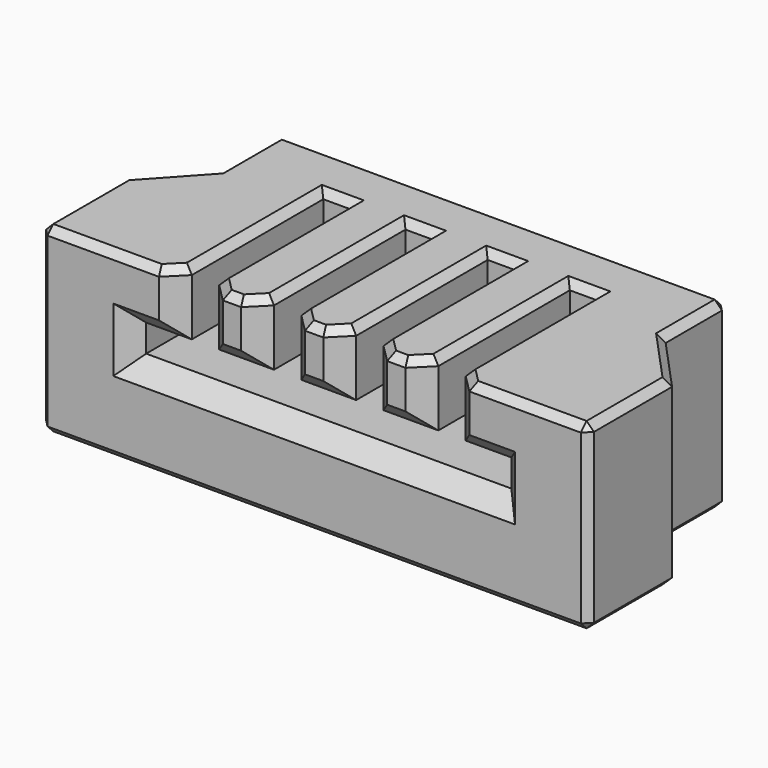
from build123d import *

# Parameters (mm, degrees)
SKETCH_W        = 30
SKETCH_H        = 10
PAD_DEPTH       = 13
SKETCH001_W     = 20
SKETCH001_H     = 1.5
POCKET_DEPTH    = 10
SKETCH002_W     = 1.5
SKETCH002_H     = 3.5
POCKET001_DEPTH = 10
POCKET002_DEPTH = 10.001
CHAMFER_SIZE    = 1
SKETCH004_R     = 3
POCKET003_DEPTH = 3
CHAMFER001_SIZE = 0.4


with BuildPart() as part:
    # Sketch → Pad (new body)
    with BuildSketch(Plane.XZ):
        with Locations((0, 5)):
            Rectangle(SKETCH_W, SKETCH_H)
    extrude(amount=PAD_DEPTH)

    # Sketch001 (on Face6 of Pad) → Pocket (cut)
    with BuildSketch(Plane.XZ.offset(13)):
        with Locations((0, 5.75)):
            Rectangle(SKETCH001_W, SKETCH001_H)
    extrude(amount=-POCKET_DEPTH, mode=Mode.SUBTRACT)

    # Sketch002 (on Face5 of Pocket) → Pocket001 (cut)
    with BuildSketch(Plane.XZ.offset(13)):
        with Locations((-6.75, 8.25)):
            Rectangle(SKETCH002_W, SKETCH002_H)
        with Locations((-2.25, 8.25)):
            Rectangle(SKETCH002_W, SKETCH002_H)
        with Locations((2.25, 8.25)):
            Rectangle(SKETCH002_W, SKETCH002_H)
        with Locations((6.75, 8.25)):
            Rectangle(SKETCH002_W, SKETCH002_H)
    extrude(amount=-POCKET001_DEPTH, mode=Mode.SUBTRACT)

    # Sketch003 (on Face6 of Pocket001) → Pocket002 (cut, through all)
    with BuildSketch(Plane(origin=(0, 0, 10), x_dir=(-1, 0, 0), z_dir=(0, 0, 1))):
        Polygon((-15, 7.25), (-12.25, 4.25), (-12.25, 0), (-15, 0), align=None)
        Polygon((15, 7.25), (12.25, 4.25), (12.25, 0), (15, 0), align=None)
    extrude(amount=-POCKET002_DEPTH, mode=Mode.SUBTRACT)

    # Chamfer
    chamfer_edges = [part.edges().sort_by_distance(p)[0] for p in [
        (-7.5, -13, 8.25),
        (-8.75, -13, 6.5),
        (-10, -13, 5.75),
        (0, -13, 5),
        (10, -13, 5.75),
        (8.75, -13, 6.5),
        (7.5, -13, 8.25),
        (6, -13, 8.25),
        (4.5, -13, 6.5),
        (3, -13, 8.25),
        (1.5, -13, 8.25),
        (0, -13, 6.5),
        (-1.5, -13, 8.25),
        (-3, -13, 8.25),
        (-4.5, -13, 6.5),
        (-6, -13, 8.25),
    ]]
    chamfer(chamfer_edges, length=CHAMFER_SIZE)

    # Sketch004 (on Face6 of Chamfer) → Pocket003 (cut)
    with BuildSketch(Plane(origin=(0, 0, 0), x_dir=(1, 0, 0), z_dir=(0, 0, -1))):
        with Locations((-7, 8)):
            Circle(SKETCH004_R)
        with Locations((7, 8)):
            Circle(SKETCH004_R)
    extrude(amount=-POCKET003_DEPTH, mode=Mode.SUBTRACT)

    # Chamfer001
    chamfer001_edges = [part.edges().sort_by_distance(p)[0] for p in [
        (-13.625, -5.75, 0),
        (-15, -10.125, 0),
        (-12.25, -2.125, 0),
        (0, -13, 0),
        (0, 0, 0),
        (15, -10.125, 0),
        (12.25, -2.125, 0),
        (13.625, -5.75, 0),
        (-10, -8, 0),
        (4, -8, 0),
        (-15, -13, 5),
        (-12.25, 0, 5),
        (12.25, 0, 5),
        (15, -13, 5),
        (-11.75, -13, 10),
        (-8, -12.5, 10),
        (-7.5, -7.5, 10),
        (-6.75, -3, 10),
        (-6, -7.5, 10),
        (-5.5, -12.5, 10),
        (-4.5, -13, 10),
        (-3.5, -12.5, 10),
        (-3, -7.5, 10),
        (-2.25, -3, 10),
        (-1.5, -7.5, 10),
        (-1, -12.5, 10),
        (0, -13, 10),
        (1, -12.5, 10),
        (1.5, -7.5, 10),
        (2.25, -3, 10),
        (3, -7.5, 10),
        (3.5, -12.5, 10),
        (4.5, -13, 10),
        (5.5, -12.5, 10),
        (6, -7.5, 10),
        (6.75, -3, 10),
        (7.5, -7.5, 10),
        (8, -12.5, 10),
        (11.75, -13, 10),
        (15, -10.125, 10),
        (13.625, -5.75, 10),
        (12.25, -2.125, 10),
        (0, 0, 10),
        (-12.25, -2.125, 10),
        (-13.625, -5.75, 10),
        (-15, -10.125, 10),
    ]]
    chamfer(chamfer001_edges, length=CHAMFER001_SIZE)


solid = part.part
